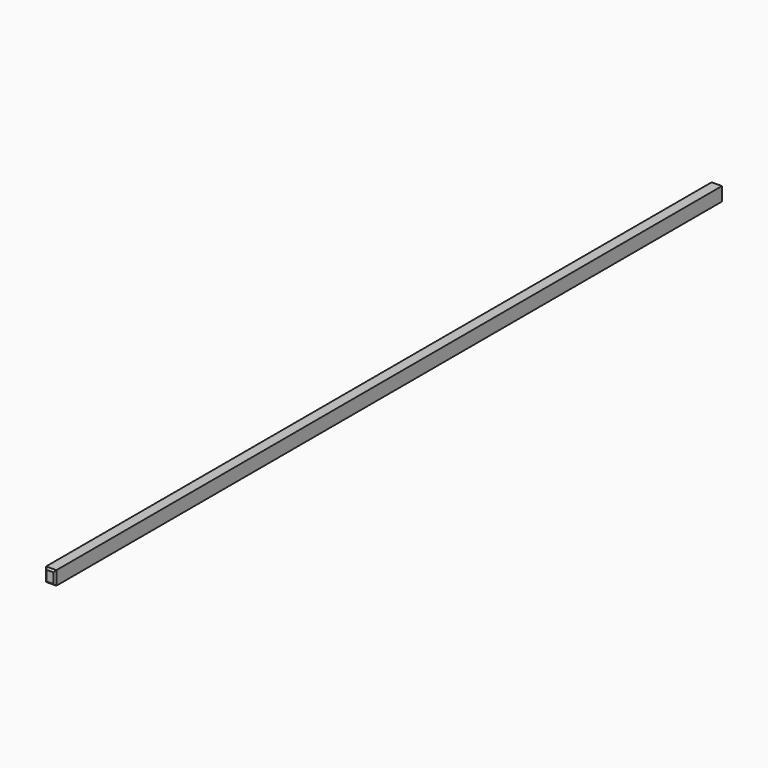
from build123d import *

# Parameters (mm, degrees)
F0_W     = 152.4
F0_H     = 203.2
F1_DEPTH = 12395.2
F2_SIZE  = 25.4
F3_SIZE  = 25.4


with BuildPart() as f1:
    # F0 (on Front) → F1 (new body)
    with BuildSketch(Plane.XZ):
        with Locations((-222.902071, -101.6)):
            Rectangle(F0_W, F0_H)
    extrude(amount=F1_DEPTH)

    # F2
    f2_edges = [f1.edges().sort_by_distance(p)[0] for p in [
        (-146.702071, -12395.2, -101.6),
        (-222.902071, -12395.2, 0),
        (-299.102071, -12395.2, -101.6),
        (-222.902071, -12395.2, -203.2),
    ]]
    chamfer(f2_edges, length=F2_SIZE)

    # F3
    f3_edges = [f1.edges().sort_by_distance(p)[0] for p in [
        (-222.902071, 0, 0),
        (-146.702071, 0, -101.6),
        (-222.902071, 0, -203.2),
        (-299.102071, 0, -101.6),
    ]]
    chamfer(f3_edges, length=F3_SIZE)


solid = f1.part
